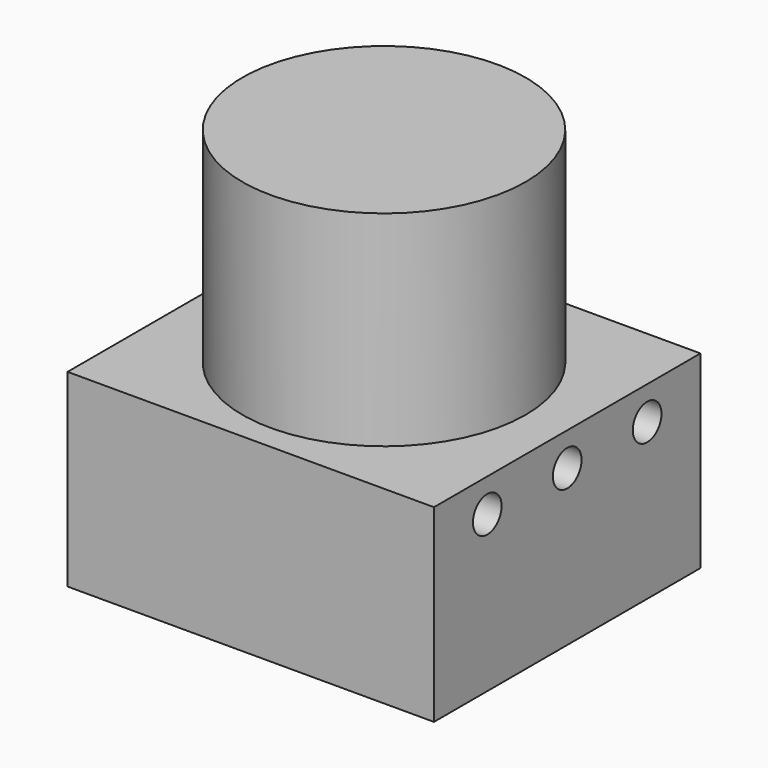
from build123d import *

# Parameters (mm, degrees)
F0_W     = 22
F0_H     = 20
F1_DEPTH = 11.35
F2_R     = 1.075
F3_DEPTH = 22.001
F4_R     = 8.5
F5_DEPTH = 12.31


with BuildPart() as f1:
    # F0 (on Top) → F1 (new body)
    with BuildSketch(Plane.XY):
        Rectangle(F0_W, F0_H)
    extrude(amount=F1_DEPTH)

    # F2 (on face) → F3 (cut, through all)
    with BuildSketch(Plane(origin=(-11, 0, 0), x_dir=(0, -1, 0), z_dir=(-1, 0, 0))):
        with Locations((-6, 9.35)):
            Circle(F2_R)
        with Locations((0, 9.35)):
            Circle(F2_R)
        with Locations((6, 9.35)):
            Circle(F2_R)
    extrude(amount=-F3_DEPTH, mode=Mode.SUBTRACT)

    # F4 (on face) → F5 (join)
    with BuildSketch(Plane.XY.offset(11.35)):
        Circle(F4_R)
    extrude(amount=F5_DEPTH)


solid = f1.part
